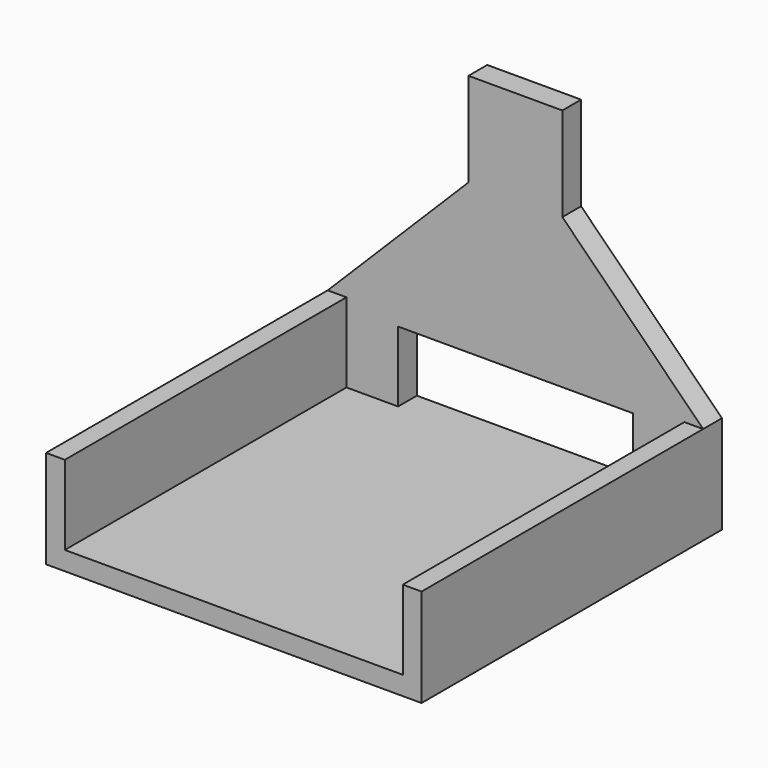
from build123d import *

# Parameters (mm, degrees)
F1_DEPTH = 50.8
F3_DEPTH = 6.35
F5_DEPTH = 6.35


with BuildPart() as f1:
    # F0 (on Front) → F1 (new body, symmetric)
    with BuildSketch(Plane.XZ):
        Polygon((-50.8, 12.817732), (-50.8, -13.73706), (50.8, -13.73706), (50.8, 12.817732), (45.72, 12.817732), (45.72, -8.65706), (-45.72, -8.65706), (-45.72, 12.817732), align=None)
    extrude(amount=F1_DEPTH, both=True)

    # F2 (on face) → F3 (join)
    with BuildSketch(Plane(origin=(0, 50.8, 0), x_dir=(-1, 0, 0), z_dir=(0, 1, 0))):
        Polygon((45.72, 12.817732), (50.8, 12.817732), (12.7, 50.917732), (12.7, 76.317732), (-12.7, 76.317732), (-12.7, 50.917732), (-50.8, 12.817732), (-45.72, 12.817732), (-45.72, -8.65706), (45.72, -8.65706), align=None)
    extrude(amount=-F3_DEPTH)

    # F4 (on face) → F5 (cut, through all)
    with BuildSketch(Plane(origin=(0, 50.8, 0), x_dir=(-1, 0, 0), z_dir=(0, 1, 0))):
        Polygon((-31.75, -8.65706), (31.75, -8.65706), (31.75, 10.392591), (-31.865364, 10.392591), align=None)
    extrude(amount=-F5_DEPTH, mode=Mode.SUBTRACT)


solid = f1.part
